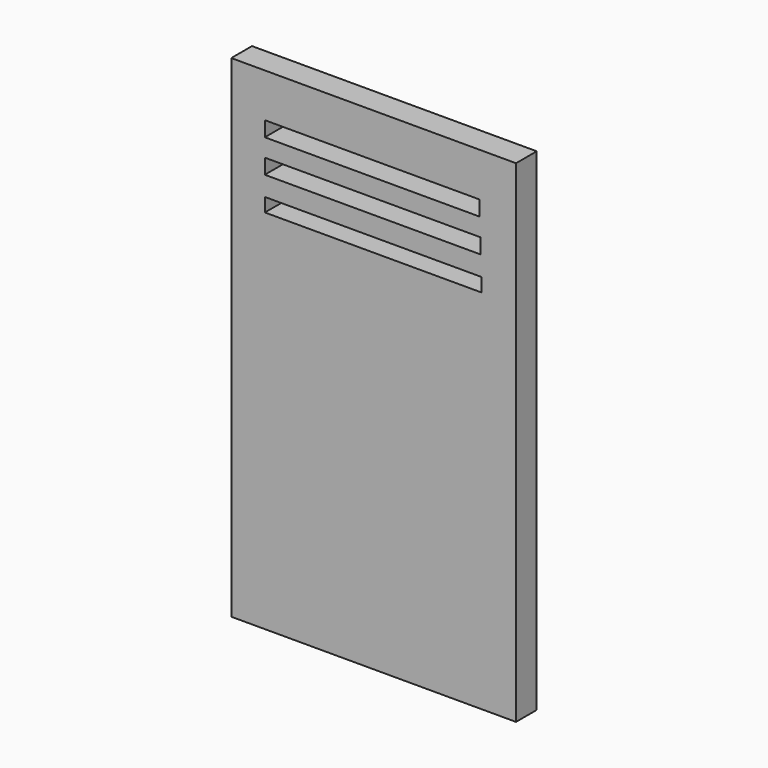
from build123d import *

# Parameters (mm, degrees)
F1_W     = 279.4
F1_H     = 482.6
F1_W_2   = 212.622687
F1_H_2   = 13.408646
F1_W_3   = 211.753972
F1_H_3   = 14.795035
F1_W_4   = 210.829266
F2_DEPTH = 25.4


with BuildPart() as f2:
    # F1 (on face) → F2 (new body)
    with BuildSketch(Plane.XZ):
        Rectangle(F1_W, F1_H)
        with Locations((-0.40128, 125.327267)):
            Rectangle(F1_W_2, F1_H_2, mode=Mode.SUBTRACT)
        with Locations((-0.924688, 158.584296)):
            Rectangle(F1_W_3, F1_H_3, mode=Mode.SUBTRACT)
        with Locations((-1.387041, 190.948442)):
            Rectangle(F1_W_4, F1_H_3, mode=Mode.SUBTRACT)
    extrude(amount=F2_DEPTH)


solid = f2.part
